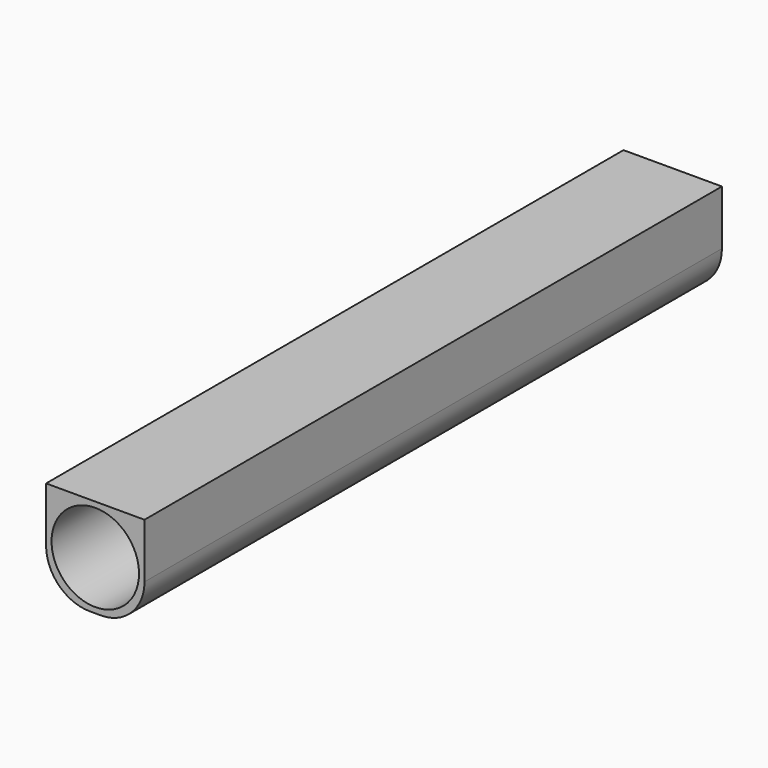
from build123d import *

# Parameters (mm, degrees)
F0_R     = 20
F1_DEPTH = 165


with BuildPart() as f1:
    # F0 (on Front) → F1 (new body, symmetric)
    with BuildSketch(Plane.XZ):
        with BuildLine():
            Line((22.5, -2.5), (22.5, 22.5))
            Line((22.5, 22.5), (-22.5, 22.5))
            Line((-22.5, 22.5), (-22.5, -2.5))
            ThreePointArc((-22.5, -2.5), (-16.642136, -16.642136), (-2.5, -22.5))
            Line((-2.5, -22.5), (2.5, -22.5))
            ThreePointArc((2.5, -22.5), (16.642136, -16.642136), (22.5, -2.5))
        make_face()
        Circle(F0_R, mode=Mode.SUBTRACT)
    extrude(amount=F1_DEPTH, both=True)


solid = f1.part
